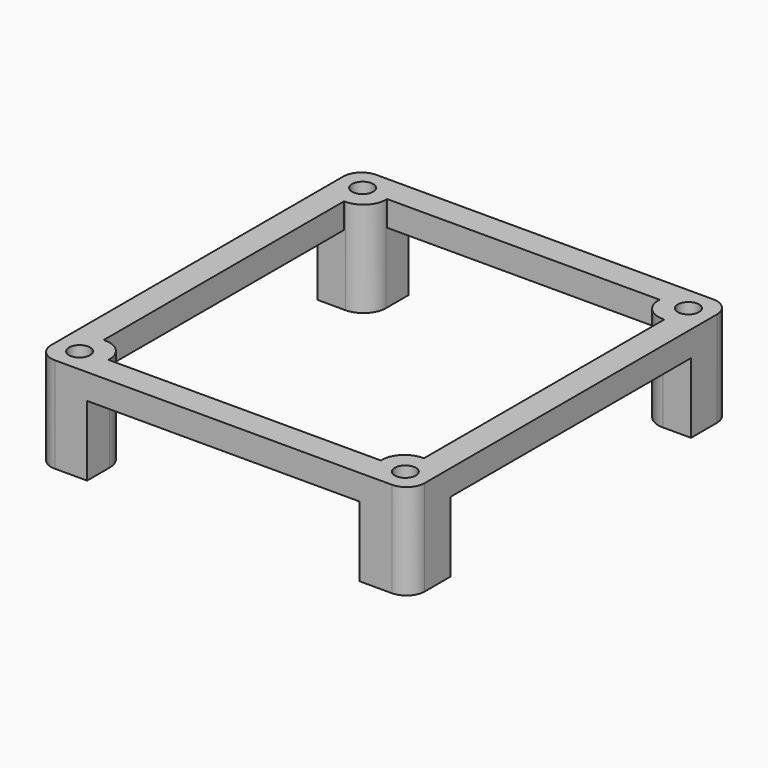
from build123d import *

# Parameters (mm, degrees)
F0_W     = 114
F0_H     = 124
F1_DEPTH = 34
F2_W     = 97
F2_H     = 42.713016
F2_W_2   = 43.496885
F2_H_2   = 107
F2_W_3   = 85.450368
F2_H_3   = 43.636596
F3_DEPTH = 25
F4_R     = 3.75
F5_DEPTH = 34
F6_DEPTH = 34


with BuildPart() as f1:
    # F0 (on Top) → F1 (new body)
    with BuildSketch(Plane.XY):
        with BuildLine():
            ThreePointArc((-65.365605, -65.46179), (-63.461799, -70.057984), (-58.865605, -71.96179))
            Line((-58.865605, -71.96179), (61.134395, -71.96179))
            ThreePointArc((61.134395, -71.96179), (65.730589, -70.057984), (67.634395, -65.46179))
            Line((67.634395, -65.46179), (67.634395, 64.53821))
            ThreePointArc((67.634395, 64.53821), (65.730589, 69.134404), (61.134395, 71.03821))
            Line((61.134395, 71.03821), (-58.865605, 71.03821))
            ThreePointArc((-58.865605, 71.03821), (-63.461799, 69.134404), (-65.365605, 64.53821))
            Line((-65.365605, 64.53821), (-65.365605, -65.46179))
        make_face()
        with Locations((1.134395, -0.46179)):
            Rectangle(F0_W, F0_H, mode=Mode.SUBTRACT)
    extrude(amount=F1_DEPTH)

    # F2 (on face) → F3 (cut)
    with BuildSketch(Plane(origin=(0, 0, 0), x_dir=(1, 0, 0), z_dir=(0, 0, -1))):
        with Locations((1.134395, 75.318298)):
            Rectangle(F2_W, F2_H)
        with Locations((-69.114047, 0.46179)):
            Rectangle(F2_W_2, F2_H_2)
        with Locations((92.359579, 0.46179)):
            Rectangle(F2_W_3, F2_H_2)
        with Locations((1.134395, -74.856508)):
            Rectangle(F2_W, F2_H_3)
    extrude(amount=-F3_DEPTH, mode=Mode.SUBTRACT)

    # F4 (on Top) → F5 (join)
    with BuildSketch(Plane.XY):
        with BuildLine():
            ThreePointArc((-47.365605, -61.96179), (-49.708751, -56.304936), (-55.365605, -53.96179))
            Line((-55.365605, -53.96179), (-65.365605, -53.96179))
            Line((-65.365605, -53.96179), (-65.365605, -65.46179))
            ThreePointArc((-65.365605, -65.46179), (-63.461799, -70.057984), (-58.865605, -71.96179))
            Line((-58.865605, -71.96179), (-47.365605, -71.96179))
            Line((-47.365605, -71.96179), (-47.365605, -61.96179))
        make_face()
        with Locations((-56.865605, -63.46179)):
            Circle(F4_R, mode=Mode.SUBTRACT)
        with BuildLine():
            ThreePointArc((57.634395, -53.96179), (51.977541, -56.304936), (49.634395, -61.96179))
            Line((49.634395, -61.96179), (49.634395, -71.96179))
            Line((49.634395, -71.96179), (61.134395, -71.96179))
            ThreePointArc((61.134395, -71.96179), (65.730589, -70.057984), (67.634395, -65.46179))
            Line((67.634395, -65.46179), (67.634395, -53.96179))
            Line((67.634395, -53.96179), (57.634395, -53.96179))
        make_face()
        with Locations((59.134395, -63.46179)):
            Circle(F4_R, mode=Mode.SUBTRACT)
        with BuildLine():
            Line((57.634395, 53.03821), (67.634395, 53.03821))
            Line((67.634395, 53.03821), (67.634395, 64.53821))
            ThreePointArc((67.634395, 64.53821), (65.730589, 69.134404), (61.134395, 71.03821))
            Line((61.134395, 71.03821), (49.634395, 71.03821))
            Line((49.634395, 71.03821), (49.634395, 61.03821))
            ThreePointArc((49.634395, 61.03821), (51.977541, 55.381355), (57.634395, 53.03821))
        make_face()
        with Locations((59.134395, 62.53821)):
            Circle(F4_R, mode=Mode.SUBTRACT)
        with BuildLine():
            Line((-65.365605, 53.03821), (-55.365605, 53.03821))
            ThreePointArc((-55.365605, 53.03821), (-49.708751, 55.381355), (-47.365605, 61.03821))
            Line((-47.365605, 61.03821), (-47.365605, 71.03821))
            Line((-47.365605, 71.03821), (-58.865605, 71.03821))
            ThreePointArc((-58.865605, 71.03821), (-63.461799, 69.134404), (-65.365605, 64.53821))
            Line((-65.365605, 64.53821), (-65.365605, 53.03821))
        make_face()
        with Locations((-56.865605, 62.53821)):
            Circle(F4_R, mode=Mode.SUBTRACT)
    extrude(amount=F5_DEPTH)

    # F4 (on Top) → F6 (cut)
    with BuildSketch(Plane.XY):
        with Locations((-56.865605, -63.46179)):
            Circle(F4_R)
        with Locations((59.134395, -63.46179)):
            Circle(F4_R)
        with Locations((59.134395, 62.53821)):
            Circle(F4_R)
        with Locations((-56.865605, 62.53821)):
            Circle(F4_R)
    extrude(amount=F6_DEPTH, mode=Mode.SUBTRACT)


solid = f1.part
